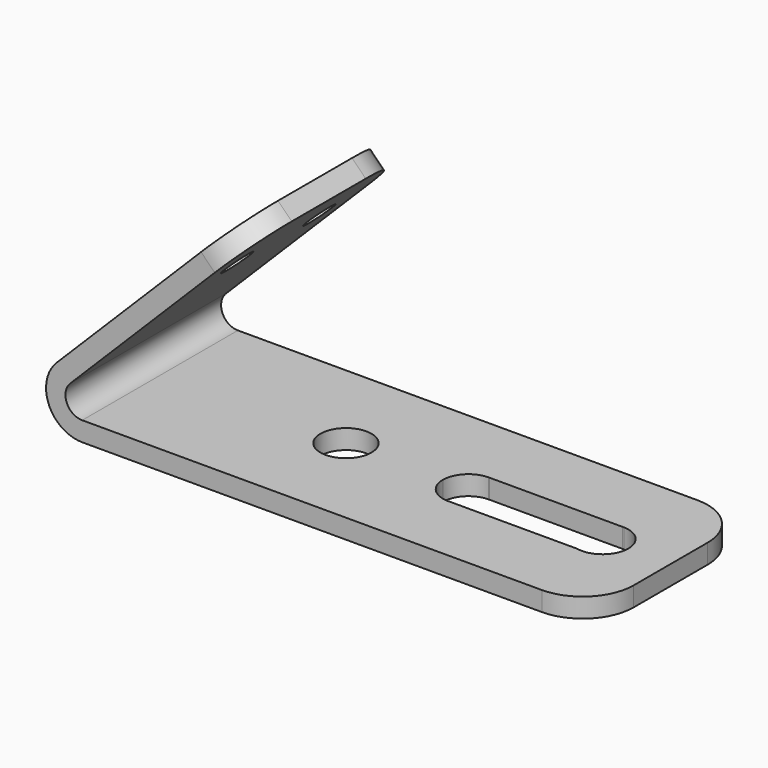
from build123d import *

# Parameters (mm, degrees)
F1_DEPTH = 483.87
F2_R     = 127
F3_R     = 127
F5_DEPTH = 262.8959715366
F6_R     = 38.1
F7_DEPTH = 111.5219220519


with BuildPart() as f1:
    # F0 (on Front) → F1 (new body)
    with BuildSketch(Plane.XZ):
        with BuildLine():
            Line((1270, -41.7147416453), (79.7203516274, -41.7147416453))
            ThreePointArc((79.7203516274, -41.7147416453), (46.5949623447, -76.9698877369), (0, -89.9747416453))
            Line((0, -89.9747416453), (1270, -89.9747416453))
            Line((1270, -89.9747416453), (1270, -41.7147416453))
        make_face()
        with BuildLine():
            ThreePointArc((-63.6217499529, 63.6217499529), (-21.4783157229, 87.373543409), (26.8740245415, 85.8675779271))
            Line((26.8740245415, 85.8675779271), (92.6755573214, 151.669110707))
            Line((92.6755573214, 151.669110707), (419.5160293606, 478.5095827463))
            Line((419.5160293606, 478.5095827463), (385.3910561006, 512.6345560063))
            Line((385.3910561006, 512.6345560063), (-63.6217499529, 63.6217499529))
        make_face()
        with BuildLine():
            ThreePointArc((0, -41.7147416453), (-38.5393960101, -15.963540513), (-29.4967766928, 29.4967766928))
            Line((-29.4967766928, 29.4967766928), (26.8740245415, 85.8675779271))
            ThreePointArc((26.8740245415, 85.8675779271), (-21.4783157229, 87.373543409), (-63.6217499529, 63.6217499529))
            ThreePointArc((-63.6217499529, 63.6217499529), (-83.1258222491, -34.431842959), (0, -89.9747416453))
            ThreePointArc((0, -89.9747416453), (46.5949623447, -76.9698877369), (79.7203516274, -41.7147416453))
            Line((79.7203516274, -41.7147416453), (0, -41.7147416453))
        make_face()
    extrude(amount=F1_DEPTH)

    # F2
    f2_edges = [f1.edges().sort_by_distance(p)[0] for p in [
        (1270, -483.87, -65.844742),
        (1270, 0, -65.844742),
    ]]
    fillet(f2_edges, radius=F2_R)

    # F3
    f3_edges = [f1.edges().sort_by_distance(p)[0] for p in [
        (402.453543, -483.87, 495.572069),
        (402.453543, 0, 495.572069),
    ]]
    fillet(f3_edges, radius=F3_R)

    # F4 (on Top) → F5 (cut)
    with BuildSketch(Plane.XY):
        with BuildLine():
            ThreePointArc((768.1907979278, -178.435), (766.9421834827, -178.4227264611), (765.6935690377, -178.435))
            Line((765.6935690377, -178.435), (768.1907979278, -178.435))
        make_face()
        with BuildLine():
            Line((768.1907979278, -178.435), (765.6935690377, -178.435))
            ThreePointArc((765.6935690377, -178.435), (721.5907686724, -197.4682971963), (703.4238827535, -241.935))
            Line((703.4238827535, -241.935), (703.4238827535, -241.9470549528))
            ThreePointArc((703.4238827535, -241.9470549528), (721.412813036, -286.2315568319), (765.1843390533, -305.435))
            Line((765.1843390533, -305.435), (768.7000279122, -305.435))
            Line((768.7000279122, -305.435), (1087.7811908722, -305.435))
            Line((1087.7811908722, -305.435), (1114.4740463012, -305.435))
            ThreePointArc((1114.4740463012, -305.435), (1150.8110443569, -283.3041158357), (1165.3364646129, -243.3145468461))
            Line((1165.3364646129, -243.3145468461), (1165.3364646129, -241.935))
            ThreePointArc((1165.3364646129, -241.935), (1146.8921429081, -197.581904853), (1102.8377891298, -178.435))
            Line((1102.8377891298, -178.435), (1099.4174480436, -178.435))
            Line((1099.4174480436, -178.435), (768.1907979278, -178.435))
        make_face()
        with BuildLine():
            ThreePointArc((1102.8377891298, -178.435), (1101.1276185867, -178.4122225051), (1099.4174480436, -178.435))
            Line((1099.4174480436, -178.435), (1102.8377891298, -178.435))
        make_face()
        with BuildLine():
            Line((768.7000279122, -305.435), (765.1843390533, -305.435))
            ThreePointArc((765.1843390533, -305.435), (766.9421834827, -305.4593284917), (768.7000279122, -305.435))
        make_face()
        with BuildLine():
            ThreePointArc((1165.3364646129, -243.3145468461), (1165.3401695046, -242.624773423), (1165.3364646129, -241.935))
            Line((1165.3364646129, -241.935), (1165.3364646129, -243.3145468461))
        make_face()
        with BuildLine():
            Line((1114.4740463012, -305.435), (1087.7811908722, -305.435))
            ThreePointArc((1087.7811908722, -305.435), (1101.1276185867, -306.837324341), (1114.4740463012, -305.435))
        make_face()
        with BuildLine():
            ThreePointArc((460.0986740112, -175.5972226858), (415.1973934059, -283.9985032912), (523.5986740112, -239.0972226858))
            ThreePointArc((523.5986740112, -239.0972226858), (504.9999546166, -194.1959420805), (460.0986740112, -175.5972226858))
        make_face()
    extrude(amount=-F5_DEPTH, mode=Mode.SUBTRACT)

    # F6 (on face) → F7 (cut)
    with BuildSketch(Plane(origin=(-63.6217499529, 0, 63.6217499529), x_dir=(0, -1, 0), z_dir=(-0.7071067812, 0, 0.7071067812))):
        with Locations((114.3, 457.2814617571)):
            Circle(F6_R)
        with Locations((114.3, 457.2814617571)):
            Circle(F6_R)
        with Locations((369.57, 457.2)):
            Circle(F6_R)
    extrude(amount=-F7_DEPTH, mode=Mode.SUBTRACT)


solid = f1.part
